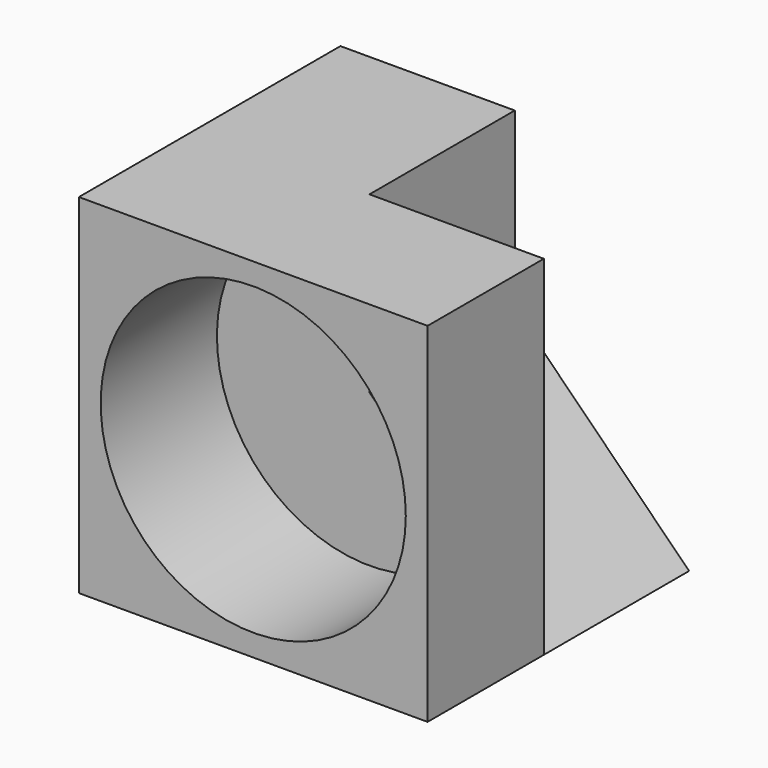
from build123d import *

# Parameters (mm, degrees)
F1_DEPTH = 20
F3_D     = 42
F3_DEPTH = 50
F3_TIP   = 12.6180729996
F4_DEPTH = 25


with BuildPart() as f1:
    # F0 (on Front) → F1 (new body)
    with BuildSketch(Plane.XZ):
        Polygon((-13.2030190676, 2.2544430345), (-37.2030190676, 26.2544430345), (-37.2030190676, -21.7455569655), align=None)
        Polygon((10.7969809324, 26.2544430345), (-37.2030190676, 26.2544430345), (-13.2030190676, 2.2544430345), align=None)
        Polygon((10.7969809324, -21.7455569655), (10.7969809324, 26.2544430345), (-13.2030190676, 2.2544430345), align=None)
        Polygon((-13.2030190676, 2.2544430345), (-37.2030190676, -21.7455569655), (10.7969809324, -21.7455569655), align=None)
    extrude(amount=F1_DEPTH)

    # F3
    with Locations(Plane(origin=(0, 0, 0), x_dir=(-1, 0, 0), z_dir=(0, 1, 0))):
        with Locations((13.2030190676, 2.2544430345)):
            Hole(F3_D / 2, depth=F3_DEPTH)
            with Locations((0, 0, -(F3_DEPTH + F3_TIP / 2))):  # 118° drill point
                Cone(0, F3_D / 2, F3_TIP, mode=Mode.SUBTRACT)

    # F2 (on face) → F4 (join)
    with BuildSketch(Plane(origin=(0, 0, 0), x_dir=(-1, 0, 0), z_dir=(0, 1, 0))):
        Polygon((-10.7969809324, -21.7455569655), (37.2030190676, -21.7455569655), (13.2030190676, 2.2544430345), align=None)
        Polygon((13.2030190676, 26.2544430345), (13.2030190676, 2.2544430345), (37.2030190676, 26.2544430345), align=None)
        Polygon((13.2030190676, 2.2544430345), (37.2030190676, -21.7455569655), (37.2030190676, 26.2544430345), align=None)
    extrude(amount=F4_DEPTH)


solid = f1.part
